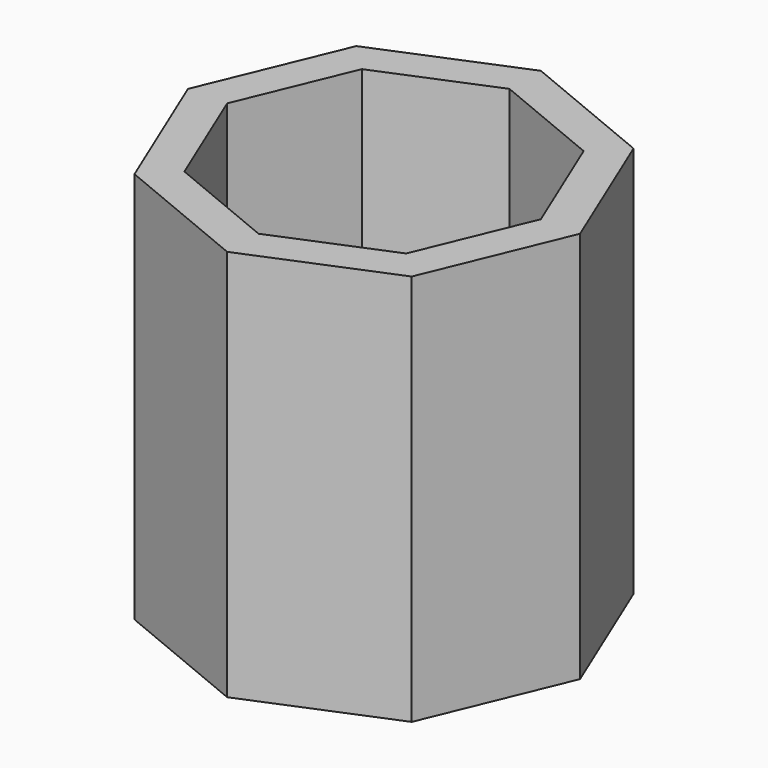
from build123d import *

# Parameters (mm, degrees)
F1_DEPTH = 100
F3_DEPTH = 105.41


with BuildPart() as f1:
    # F0 (on Top) → F1 (new body)
    with BuildSketch(Plane.XY):
        Polygon((35.355339, 35.355339), (0, 50), (-35.355339, 35.355339), (-50, 0), (-35.355339, -35.355339), (0, -50), (35.355339, -35.355339), (50, 0), align=None)
    extrude(amount=F1_DEPTH)

    # F2 (on Top) → F3 (cut)
    with BuildSketch(Plane.XY):
        Polygon((-40, 0), (-28.284271, -28.284271), (0, -40), (28.284271, -28.284271), (40, 0), (28.284271, 28.284271), (0, 40), (-28.284271, 28.284271), align=None)
    extrude(amount=F3_DEPTH, mode=Mode.SUBTRACT)


solid = f1.part
